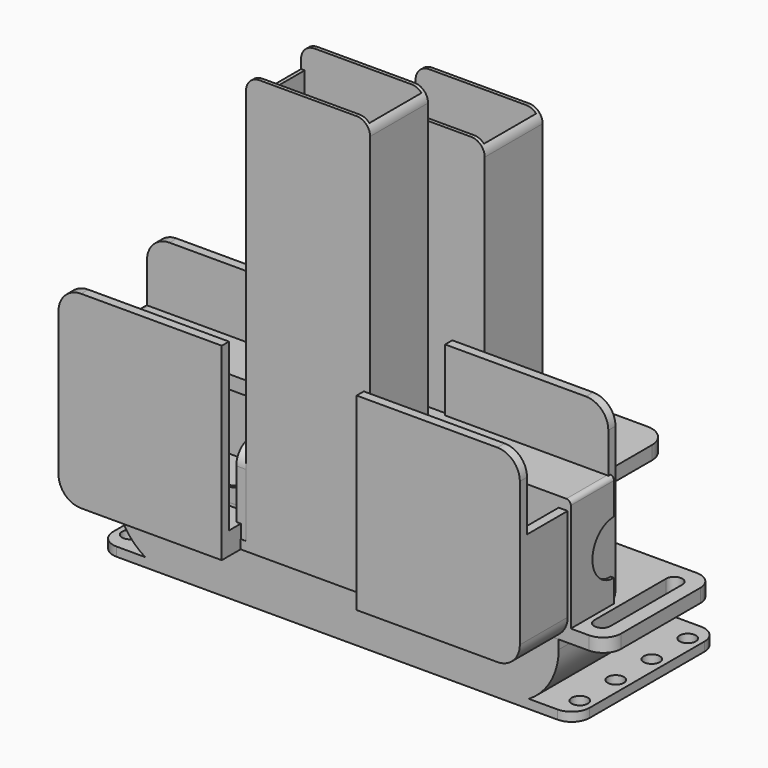
from build123d import *

# Parameters (mm, degrees)
EXTRUDE002_DEPTH          = 0.8
EXTRUDE001_DEPTH          = 0.8
EXTRUDE_DEPTH             = 24.6
BOX003_W                  = 0.8
BOX003_H                  = 16.1
BOX003_DEPTH              = 5
BOX004_W                  = 0.8
BOX004_H                  = 16.1
BOX004_DEPTH              = 7
BOX002_W                  = 27.6
BOX002_H                  = 14.5
BOX002_DEPTH              = 92
BOX_W                     = 27.6
BOX_H                     = 16.1
BOX_DEPTH                 = 92
FILLET001_R               = 3
COMPOUND_PLACEMENT_ANGLE  = 180
CYLINDER_R                = 1.8
CYLINDER_DEPTH            = 10
ARRAY001_X_COUNT          = 2
ARRAY001_X_PITCH          = 100
ARRAY001_Y_COUNT          = 4
ARRAY001_Y_PITCH          = 10
BOX005_W                  = 86
BOX005_H                  = 39.9
BOX005_DEPTH              = 0.8
EXTRUDE003_DEPTH          = 50
BOX001_W                  = 106
BOX001_H                  = 39.9
BOX001_DEPTH              = 2
FILLET_R                  = 4
EXTRUDE004_DEPTH          = 11.3
BOX008_W                  = 102.6
BOX008_H                  = 22.6
BOX008_DEPTH              = 98.6
CYLINDER003_R             = 4
CYLINDER003_DEPTH         = 50
CYLINDER002_R             = 1.8
CYLINDER002_DEPTH         = 50
ARRAY_X_COUNT             = 7
ARRAY_X_PITCH             = 10
BOX009_W                  = 30
BOX009_H                  = 26.6
BOX009_DEPTH              = 98.6
BOX006_W                  = 98.6
BOX006_H                  = 22.6
BOX006_DEPTH              = 98.6
BOX007_W                  = 102.6
BOX007_H                  = 26.6
BOX007_DEPTH              = 42
FILLET002_R               = 5
CYLINDER004_R             = 1.8
CYLINDER004_DEPTH         = 10
ARRAY002_X_COUNT          = 5
ARRAY002_X_PITCH          = 10
BOX010_W                  = 50
BOX010_H                  = 16.1
BOX010_DEPTH              = 2
FILLET003_R               = 5
CYLINDER006_R             = 2
CYLINDER006_DEPTH         = 10
ARRAY004_X_COUNT          = 2
ARRAY004_X_PITCH          = 24
CYLINDER005_R             = 1.8
CYLINDER005_DEPTH         = 10
ARRAY003_X_COUNT          = 3
ARRAY003_X_PITCH          = 10
BOX012_W                  = 38
BOX012_H                  = 10
BOX012_DEPTH              = 2
FILLET005_R               = 5
BOX011_W                  = 38
BOX011_H                  = 2
BOX011_DEPTH              = 28
FILLET004_R               = 5
CYLINDER008_R             = 6
CYLINDER008_DEPTH         = 150
CYLINDER007_R             = 1.8
CYLINDER007_DEPTH         = 10
BOX017_W                  = 3.6
BOX017_H                  = 20
BOX017_DEPTH              = 10
BOX014_W                  = 10
BOX014_H                  = 3
BOX014_DEPTH              = 25.1
FILLET007_R               = 5
BOX015_W                  = 3
BOX015_H                  = 12
BOX015_DEPTH              = 28.1
FILLET008_R               = 1
BOX016_W                  = 10
BOX016_H                  = 30
BOX016_DEPTH              = 3
FILLET006_R               = 4
BOX013_W                  = 100
BOX013_H                  = 12
BOX013_DEPTH              = 3
CHAMFER001_SIZE           = 1
BOX018_W                  = 100
BOX018_H                  = 12
BOX018_DEPTH              = 3
CHAMFER_SIZE              = 2
BOX019_W                  = 30
BOX019_H                  = 30
BOX019_DEPTH              = 3
FILLET009_R               = 5
FILLET010_R               = 5
BOX024_W                  = 26
BOX024_H                  = 14.5
BOX024_DEPTH              = 10
CYLINDER009_R             = 1.8
CYLINDER009_DEPTH         = 10
BOX023_W                  = 3.6
BOX023_H                  = 12
BOX023_DEPTH              = 10
FUSION015_ROLL_ANGLE      = 90
FUSION015_PLACEMENT_ANGLE = -90
BOX022_W                  = 3
BOX022_H                  = 25
BOX022_DEPTH              = 20
FILLET011_R               = 4
BOX021_W                  = 26
BOX021_H                  = 14.5
BOX021_DEPTH              = 10
BOX020_W                  = 30
BOX020_H                  = 16
BOX020_DEPTH              = 9
FILLET012_R               = 2


with BuildPart() as usb_extrude:
    # Sketch002 → Extrude002 (new body)
    with BuildSketch(Plane.XZ.offset(-24.6)):
        with BuildLine():
            Line((-35.5, -15.8), (35.5, -15.8))
            ThreePointArc((35.5, -15.8), (45.258074, -11.758074), (49.3, -2))
            Line((49.3, 0), (49.3, -2))
            Line((-49.3, 0), (49.3, 0))
            Line((-49.3, 0), (-49.3, -2))
            ThreePointArc((-49.3, -2), (-45.258074, -11.758074), (-35.5, -15.8))
        make_face()
    extrude(amount=EXTRUDE002_DEPTH)


with BuildPart() as side_extrude:
    # Sketch001 → Extrude001 (new body)
    with BuildSketch(Plane.XZ):
        with BuildLine():
            Line((-35.5, -15.8), (35.5, -15.8))
            ThreePointArc((35.5, -15.8), (45.258074, -11.758074), (49.3, -2))
            Line((49.3, 0), (49.3, -2))
            Line((16.11426, 7.864757), (49.3, 0))
            ThreePointArc((16.11426, 7.864757), (0, 21.682044), (-16.11426, 7.864757))
            Line((-49.3, 0), (-16.11426, 7.864757))
            Line((-49.3, 0), (-49.3, -2))
            ThreePointArc((-49.3, -2), (-45.258074, -11.758074), (-35.5, -15.8))
        make_face()
    extrude(amount=-EXTRUDE001_DEPTH)


with BuildPart() as part_mirroring:
    # Part__Mirroring: instance of side extrude
    add(side_extrude.part.mirror(Plane(origin=(0, 12.3, 0), x_dir=(1, 0, 0), z_dir=(0, 1, 0))))


with BuildPart() as obj1:
    # Sketch → Extrude (new body)
    with BuildSketch(Plane.XZ):
        with BuildLine():
            Line((-35.5, -15.8), (35.5, -15.8))
            ThreePointArc((35.5, -15.8), (45.258074, -11.758074), (49.3, -2))
            Line((49.3, -2), (49.3, 0))
            Line((48.5, 0), (49.3, 0))
            Line((48.5, -2), (48.5, 0))
            ThreePointArc((35.5, -15), (44.692388, -11.192388), (48.5, -2))
            Line((-35.5, -15), (35.5, -15))
            ThreePointArc((-48.5, -2), (-44.692388, -11.192388), (-35.5, -15))
            Line((-48.5, 0), (-48.5, -2))
            Line((-49.3, 0), (-48.5, 0))
            Line((-49.3, -2), (-49.3, 0))
            ThreePointArc((-49.3, -2), (-45.258074, -11.758074), (-35.5, -15.8))
        make_face()
    extrude(amount=-EXTRUDE_DEPTH)

    # Fusion: union Part__Mirroring, side extrude
    add(part_mirroring.part)
    add(side_extrude.part)


with BuildPart() as usb_bottom_wall_cube:
    # Box003 → Box003 (new body)
    with BuildSketch(Plane(origin=(13, -8.05, 0), x_dir=(1, 0, 0), z_dir=(0, 0, 1))):
        with Locations((0.4, 8.05)):
            Rectangle(BOX003_W, BOX003_H)
    extrude(amount=BOX003_DEPTH)


with BuildPart() as usb_top_wall_cube:
    # Box004 → Box004 (new body)
    with BuildSketch(Plane(origin=(13, -8.05, 80), x_dir=(1, 0, 0), z_dir=(0, 0, 1))):
        with Locations((0.4, 8.05)):
            Rectangle(BOX004_W, BOX004_H)
    extrude(amount=BOX004_DEPTH)


with BuildPart() as usb_inner_cube:
    # Box002 → Box002 (new body)
    with BuildSketch(Plane(origin=(-13, -7.25, 0.8), x_dir=(1, 0, 0), z_dir=(0, 0, 1))):
        with Locations((13.8, 7.25)):
            Rectangle(BOX002_W, BOX002_H)
    extrude(amount=BOX002_DEPTH)


with BuildPart() as usb_holder_compound:
    # Box → Box (new body)
    with BuildSketch(Plane(origin=(-13.8, -8.05, 0), x_dir=(1, 0, 0), z_dir=(0, 0, 1))):
        with Locations((13.8, 8.05)):
            Rectangle(BOX_W, BOX_H)
    extrude(amount=BOX_DEPTH)

    # Fillet001
    fillet001_edges = [usb_holder_compound.edges().sort_by_distance(p)[0] for p in [
        (-13.8, 0, 92),
        (13.8, 0, 92),
    ]]
    fillet(fillet001_edges, radius=FILLET001_R)

    # Cut002: cut usb inner cube
    add(usb_inner_cube.part, mode=Mode.SUBTRACT)

    # Fusion001: union usb bottom wall cube, usb top wall cube
    add(usb_bottom_wall_cube.part)
    add(usb_top_wall_cube.part)


with BuildPart() as usb_holder_compound_1:
    # Compound placement: moved
    add(usb_holder_compound.part.moved(Location((0, 0, 1.2))).rotate(Axis((0, 0, 1.2), (0, 0, 1)), COMPOUND_PLACEMENT_ANGLE))


with BuildPart() as usb_holder_compound_clone:
    # Body base: copy of usb holder compound
    add(usb_holder_compound_1.part)


with BuildPart() as usb_holder_compound_clone_1:
    # Clone placement: moved
    add(usb_holder_compound_clone.part.moved(Location((0, 0, -1.2))))


with BuildPart() as usb_holder_compound_clone_2:
    # Body placement: moved
    add(usb_holder_compound_clone_1.part.moved(Location((0, 31.85, -15.8))))


with BuildPart() as bolt_hole_array:
    # Cylinder → Cylinder (new body)
    with BuildSketch(Plane(origin=(-50, 5, -17), x_dir=(1, 0, 0), z_dir=(0, 0, 1))):
        Circle(CYLINDER_R)
    extrude(amount=CYLINDER_DEPTH)

    # Array001 X: bolt hole array ×2


with BuildPart() as bolt_hole_array_1:
    add(bolt_hole_array.part)
    with Locations(*[(i * ARRAY001_X_PITCH, 0, 0) for i in range(1, ARRAY001_X_COUNT)]):
        add(bolt_hole_array.part)

    # Array001 Y: bolt hole array ×4


with BuildPart() as bolt_hole_array_2:
    add(bolt_hole_array_1.part)
    with Locations(*[(0, i * ARRAY001_Y_PITCH, 0) for i in range(1, ARRAY001_Y_COUNT)]):
        add(bolt_hole_array_1.part)


with BuildPart() as bottom_wall_cube:
    # Box005 → Box005 (new body)
    with BuildSketch(Plane(origin=(-43, 0, -15.8), x_dir=(1, 0, 0), z_dir=(0, 0, 1))):
        with Locations((43, 19.95)):
            Rectangle(BOX005_W, BOX005_H)
    extrude(amount=BOX005_DEPTH)


with BuildPart() as side_sketch_removal_extrude:
    # Sketch001 → Extrude003 (new body, symmetric)
    with BuildSketch(Plane.XZ):
        with BuildLine():
            Line((-35.5, -15.8), (35.5, -15.8))
            ThreePointArc((35.5, -15.8), (45.258074, -11.758074), (49.3, -2))
            Line((49.3, 0), (49.3, -2))
            Line((16.11426, 7.864757), (49.3, 0))
            ThreePointArc((16.11426, 7.864757), (0, 21.682044), (-16.11426, 7.864757))
            Line((-49.3, 0), (-16.11426, 7.864757))
            Line((-49.3, 0), (-49.3, -2))
            ThreePointArc((-49.3, -2), (-45.258074, -11.758074), (-35.5, -15.8))
        make_face()
    extrude(amount=EXTRUDE003_DEPTH, both=True)


with BuildPart() as obj2:
    # Box001 → Box001 (new body)
    with BuildSketch(Plane(origin=(-53, 0, -15.8), x_dir=(1, 0, 0), z_dir=(0, 0, 1))):
        with Locations((53, 19.95)):
            Rectangle(BOX001_W, BOX001_H)
    extrude(amount=BOX001_DEPTH)

    # Fillet
    fillet_edges = [obj2.edges().sort_by_distance(p)[0] for p in [
        (-53, 0, -14.8),
        (-53, 39.9, -14.8),
        (53, 0, -14.8),
        (53, 39.9, -14.8),
    ]]
    fillet(fillet_edges, radius=FILLET_R)

    # Cut001: cut side sketch removal extrude
    add(side_sketch_removal_extrude.part, mode=Mode.SUBTRACT)

    # Fusion002: union bottom wall cube
    add(bottom_wall_cube.part)

    # Cut: cut bolt hole array
    add(bolt_hole_array_2.part, mode=Mode.SUBTRACT)

    # Fusion003: union obj1, usb holder compound clone
    add(obj1.part)
    add(usb_holder_compound_clone_2.part)


with BuildPart() as bottom_pad:
    # Sketch003 → Extrude004 (new body, symmetric)
    with BuildSketch(Plane.XZ):
        with BuildLine():
            Line((-35.5, -15.8), (35.5, -15.8))
            ThreePointArc((35.5, -15.8), (45.258074, -11.758074), (49.3, -2))
            Line((49.3, -2), (49.3, 0))
            Line((-49.3, 0), (49.3, 0))
            Line((-49.3, -2), (-49.3, 0))
            ThreePointArc((-49.3, -2), (-45.258074, -11.758074), (-35.5, -15.8))
        make_face()
    extrude(amount=EXTRUDE004_DEPTH, both=True)


with BuildPart() as obj3:
    # Box008 → Box008 (new body)
    with BuildSketch(Plane(origin=(-51.3, -11.3, 5), x_dir=(1, 0, 0), z_dir=(0, 0, 1))):
        with Locations((51.3, 11.3)):
            Rectangle(BOX008_W, BOX008_H)
    extrude(amount=BOX008_DEPTH)


with BuildPart() as bolt_head_hole:
    # Cylinder003 → Cylinder003 (new body)
    with BuildSketch(Plane.XY.offset(50)):
        Circle(CYLINDER003_R)
    extrude(amount=CYLINDER003_DEPTH)


with BuildPart() as bolt_hole_array001:
    # Cylinder002 → Cylinder002 (new body)
    with BuildSketch(Plane.XY):
        Circle(CYLINDER002_R)
    extrude(amount=CYLINDER002_DEPTH)

    # Fusion005: union bolt head hole
    add(bolt_head_hole.part)


with BuildPart() as bolt_hole_array001_1:
    # Fusion005 placement: moved
    add(bolt_hole_array001.part.moved(Location((-30, 0, -68.8))))

    # Array X: bolt hole array001 ×7


with BuildPart() as bolt_hole_array001_2:
    add(bolt_hole_array001_1.part)
    with Locations(*[(i * ARRAY_X_PITCH, 0, 0) for i in range(1, ARRAY_X_COUNT)]):
        add(bolt_hole_array001_1.part)


with BuildPart() as obj4:
    # Box009 → Box009 (new body)
    with BuildSketch(Plane(origin=(-15, -13.3, -49.3), x_dir=(1, 0, 0), z_dir=(0, 0, 1))):
        with Locations((15, 13.3)):
            Rectangle(BOX009_W, BOX009_H)
    extrude(amount=BOX009_DEPTH)


with BuildPart() as obj5:
    # Box006 → Box006 (new body)
    with BuildSketch(Plane(origin=(-49.3, -11.3, 0), x_dir=(1, 0, 0), z_dir=(0, 0, 1))):
        with Locations((49.3, 11.3)):
            Rectangle(BOX006_W, BOX006_H)
    extrude(amount=BOX006_DEPTH)

    # Fusion004: union bottom pad, obj3, bolt hole array001, obj4
    add(bottom_pad.part)
    add(obj3.part)
    add(bolt_hole_array001_2.part)
    add(obj4.part)


with BuildPart() as obj5_1:
    # Fusion004 placement: moved
    add(obj5.part.moved(Location((0, 0, 20.8))))


with BuildPart() as obj6:
    # Box007 → Box007 (new body)
    with BuildSketch(Plane(origin=(-51.3, -13.3, 0), x_dir=(1, 0, 0), z_dir=(0, 0, 1))):
        with Locations((51.3, 13.3)):
            Rectangle(BOX007_W, BOX007_H)
    extrude(amount=BOX007_DEPTH)

    # Fillet002
    fillet002_edges = [obj6.edges().sort_by_distance(p)[0] for p in [
        (-51.3, 0, 42),
        (-51.3, 0, 0),
        (51.3, 0, 42),
        (51.3, 0, 0),
    ]]
    fillet(fillet002_edges, radius=FILLET002_R)

    # Cut003: cut obj5
    add(obj5_1.part, mode=Mode.SUBTRACT)


with BuildPart() as bolt_hole_array002:
    # Cylinder004 → Cylinder004 (new body)
    with BuildSketch(Plane.XY):
        Circle(CYLINDER004_R)
    extrude(amount=CYLINDER004_DEPTH)

    # Array002 X: bolt hole array002 ×5


with BuildPart() as bolt_hole_array002_1:
    add(bolt_hole_array002.part)
    with Locations(*[(i * ARRAY002_X_PITCH, 0, 0) for i in range(1, ARRAY002_X_COUNT)]):
        add(bolt_hole_array002.part)


with BuildPart() as bolt_hole_array002_2:
    # Array002 placement: moved
    add(bolt_hole_array002_1.part.moved(Location((-20, 0, 0))))


with BuildPart() as usb_holder_cut001:
    # Box010 → Box010 (new body)
    with BuildSketch(Plane(origin=(-25, -8.05, 0), x_dir=(1, 0, 0), z_dir=(0, 0, 1))):
        with Locations((25, 8.05)):
            Rectangle(BOX010_W, BOX010_H)
    extrude(amount=BOX010_DEPTH)

    # Fillet003
    fillet003_edges = [usb_holder_cut001.edges().sort_by_distance(p)[0] for p in [
        (-25, -8.05, 1),
        (-25, 8.05, 1),
        (25, -8.05, 1),
        (25, 8.05, 1),
    ]]
    fillet(fillet003_edges, radius=FILLET003_R)

    # Fusion006: union usb holder compound
    add(usb_holder_compound_1.part)

    # Cut004: cut bolt hole array002
    add(bolt_hole_array002_2.part, mode=Mode.SUBTRACT)


with BuildPart() as array004:
    # Cylinder006 → Cylinder006 (new body)
    with BuildSketch(Plane(origin=(0, 0, 0), x_dir=(1, 0, 0), z_dir=(0, 1, 0))):
        Circle(CYLINDER006_R)
    extrude(amount=CYLINDER006_DEPTH)

    # Array004 X: Array004 ×2


with BuildPart() as array004_1:
    add(array004.part)
    with Locations(*[(i * ARRAY004_X_PITCH, 0, 0) for i in range(1, ARRAY004_X_COUNT)]):
        add(array004.part)


with BuildPart() as array004_2:
    # Array004 placement: moved
    add(array004_1.part.moved(Location((-12, 0, 17))))


with BuildPart() as camera_holder_extract_fusion:
    # Cylinder005 → Cylinder005 (new body)
    with BuildSketch(Plane.XY):
        Circle(CYLINDER005_R)
    extrude(amount=CYLINDER005_DEPTH)

    # Array003 X: camera holder extract fusion ×3


with BuildPart() as camera_holder_extract_fusion_1:
    add(camera_holder_extract_fusion.part)
    with Locations(*[(i * ARRAY003_X_PITCH, 0, 0) for i in range(1, ARRAY003_X_COUNT)]):
        add(camera_holder_extract_fusion.part)


with BuildPart() as camera_holder_extract_fusion_2:
    # Array003 placement: moved
    add(camera_holder_extract_fusion_1.part.moved(Location((-10, 7, 0))))

    # Fusion008: union Array004
    add(array004_2.part)


with BuildPart() as fillet005:
    # Box012 → Box012 (new body)
    with BuildSketch(Plane(origin=(-19, 2, 0), x_dir=(1, 0, 0), z_dir=(0, 0, 1))):
        with Locations((19, 5)):
            Rectangle(BOX012_W, BOX012_H)
    extrude(amount=BOX012_DEPTH)

    # Fillet005
    fillet005_edges = [fillet005.edges().sort_by_distance(p)[0] for p in [
        (-19, 12, 1),
        (19, 12, 1),
    ]]
    fillet(fillet005_edges, radius=FILLET005_R)


with BuildPart() as camera_holder_cut:
    # Box011 → Box011 (new body)
    with BuildSketch(Plane(origin=(-19, 0, 0), x_dir=(1, 0, 0), z_dir=(0, 0, 1))):
        with Locations((19, 1)):
            Rectangle(BOX011_W, BOX011_H)
    extrude(amount=BOX011_DEPTH)

    # Fillet004
    fillet004_edges = [camera_holder_cut.edges().sort_by_distance(p)[0] for p in [
        (-19, 1, 28),
        (19, 1, 28),
    ]]
    fillet(fillet004_edges, radius=FILLET004_R)

    # Fusion007: union Fillet005
    add(fillet005.part)

    # Cut005: cut camera holder extract fusion
    add(camera_holder_extract_fusion_2.part, mode=Mode.SUBTRACT)


with BuildPart() as cylinder:
    # Cylinder008 → Cylinder008 (new body)
    with BuildSketch(Plane(origin=(-75, 12, 14.05), x_dir=(0, 0, -1), z_dir=(1, 0, 0))):
        Circle(CYLINDER008_R)
    extrude(amount=CYLINDER008_DEPTH)


with BuildPart() as m3_hole:
    # Cylinder007 → Cylinder007 (new body)
    with BuildSketch(Plane(origin=(0, -10, 0), x_dir=(1, 0, 0), z_dir=(0, 0, 1))):
        Circle(CYLINDER007_R)
    extrude(amount=CYLINDER007_DEPTH)


with BuildPart() as part_mirroring002:
    # Part__Mirroring002: instance of m3 hole
    add(m3_hole.part.mirror(Plane(origin=(0, 0, 0), x_dir=(1, 0, 0), z_dir=(0, 1, 0))))


with BuildPart() as extract_fusion:
    # Box017 → Box017 (new body)
    with BuildSketch(Plane(origin=(-1.8, -10, 0), x_dir=(1, 0, 0), z_dir=(0, 0, 1))):
        with Locations((1.8, 10)):
            Rectangle(BOX017_W, BOX017_H)
    extrude(amount=BOX017_DEPTH)

    # Fusion010: union Part__Mirroring002, m3 hole
    add(part_mirroring002.part)
    add(m3_hole.part)


with BuildPart() as extract_fusion_1:
    # Fusion010 placement: moved
    add(extract_fusion.part.moved(Location((-5, 15, 0))))

    # Fusion014: union Cylinder
    add(cylinder.part)


with BuildPart() as corner_cube_fillet:
    # Box014 → Box014 (new body)
    with BuildSketch(Plane.XY):
        with Locations((5, 1.5)):
            Rectangle(BOX014_W, BOX014_H)
    extrude(amount=BOX014_DEPTH)

    # Fillet007
    fillet007_edges = [corner_cube_fillet.edges().sort_by_distance(p)[0] for p in [
        (10, 1.5, 0),
    ]]
    fillet(fillet007_edges, radius=FILLET007_R)


with BuildPart() as other_corner_cube_fillet:
    # Box015 → Box015 (new body)
    with BuildSketch(Plane(origin=(-2, 0, 0), x_dir=(1, 0, 0), z_dir=(0, 0, 1))):
        with Locations((1.5, 6)):
            Rectangle(BOX015_W, BOX015_H)
    extrude(amount=BOX015_DEPTH)

    # Fillet008
    fillet008_edges = [other_corner_cube_fillet.edges().sort_by_distance(p)[0] for p in [
        (-2, 6, 28.1),
    ]]
    fillet(fillet008_edges, radius=FILLET008_R)


with BuildPart() as cornet_set_cut:
    # Box016 → Box016 (new body)
    with BuildSketch(Plane(origin=(-10, 0, 0), x_dir=(1, 0, 0), z_dir=(0, 0, 1))):
        with Locations((5, 15)):
            Rectangle(BOX016_W, BOX016_H)
    extrude(amount=BOX016_DEPTH)

    # Fillet006
    fillet006_edges = [cornet_set_cut.edges().sort_by_distance(p)[0] for p in [
        (-10, 0, 1.5),
        (-10, 30, 1.5),
    ]]
    fillet(fillet006_edges, radius=FILLET006_R)

    # Fusion011: union corner cube fillet, other corner cube fillet
    add(corner_cube_fillet.part)
    add(other_corner_cube_fillet.part)

    # Cut006: cut extract fusion
    add(extract_fusion_1.part, mode=Mode.SUBTRACT)


with BuildPart() as cornet_set_cut_1:
    # Cut006 placement: moved
    add(cornet_set_cut.part.moved(Location((-50, 0, 0))))


with BuildPart() as flat_holder_cube_chamfer:
    # Box013 → Box013 (new body)
    with BuildSketch(Plane(origin=(-50, 0, 25.1), x_dir=(1, 0, 0), z_dir=(0, 0, 1))):
        with Locations((50, 6)):
            Rectangle(BOX013_W, BOX013_H)
    extrude(amount=BOX013_DEPTH)

    # Chamfer001
    chamfer001_edges = [flat_holder_cube_chamfer.edges().sort_by_distance(p)[0] for p in [
        (0, 12, 25.1),
    ]]
    chamfer(chamfer001_edges, length=CHAMFER001_SIZE)


with BuildPart() as bottom_flat_holder_chamfer:
    # Box018 → Box018 (new body)
    with BuildSketch(Plane(origin=(-50, 0, 0), x_dir=(1, 0, 0), z_dir=(0, 0, 1))):
        with Locations((50, 6)):
            Rectangle(BOX018_W, BOX018_H)
    extrude(amount=BOX018_DEPTH)

    # Chamfer
    chamfer_edges = [bottom_flat_holder_chamfer.edges().sort_by_distance(p)[0] for p in [
        (0, 12, 3),
    ]]
    chamfer(chamfer_edges, length=CHAMFER_SIZE)


with BuildPart() as bottom_flat_fillet:
    # Box019 → Box019 (new body)
    with BuildSketch(Plane(origin=(-50, 0, 0), x_dir=(1, 0, 0), z_dir=(0, 0, 1))):
        with Locations((15, 15)):
            Rectangle(BOX019_W, BOX019_H)
    extrude(amount=BOX019_DEPTH)

    # Fillet009
    fillet009_edges = [bottom_flat_fillet.edges().sort_by_distance(p)[0] for p in [
        (-20, 30, 1.5),
    ]]
    fillet(fillet009_edges, radius=FILLET009_R)


with BuildPart() as bottom_flat_fusion:
    # Part__Mirroring003: instance of bottom flat fillet
    add(bottom_flat_fillet.part.mirror(Plane(origin=(0, 0, 0), x_dir=(0, -1, 0), z_dir=(1, 0, 0))))

    # Fusion013: union bottom flat fillet
    add(bottom_flat_fillet.part)


with BuildPart() as bottom_flat_fusion_mirror_5_fillet:
    # Part__Mirroring004: instance of bottom flat fusion
    add(bottom_flat_fusion.part.mirror(Plane(origin=(0, 0, 14.05), x_dir=(0, 1, 0), z_dir=(0, 0, 1))))

    # Fillet010
    fillet010_edges = [bottom_flat_fusion_mirror_5_fillet.edges().sort_by_distance(p)[0] for p in [
        (50, 30, 26.6),
        (-50, 30, 26.6),
    ]]
    fillet(fillet010_edges, radius=FILLET010_R)


with BuildPart() as flat_holder_fusion:
    # Part__Mirroring001: instance of cornet set cut
    add(cornet_set_cut_1.part.mirror(Plane(origin=(0, 0, 0), x_dir=(0, -1, 0), z_dir=(1, 0, 0))))

    # Fusion012: union cornet set cut, flat holder cube chamfer, bottom flat holder chamfer, bottom flat fusion, bottom flat fusion (Mirror #5) fillet
    add(cornet_set_cut_1.part)
    add(flat_holder_cube_chamfer.part)
    add(bottom_flat_holder_chamfer.part)
    add(bottom_flat_fusion.part)
    add(bottom_flat_fusion_mirror_5_fillet.part)


with BuildPart() as cube003:
    # Box024 → Box024 (new body)
    with BuildSketch(Plane(origin=(-13, -7.25, 0), x_dir=(1, 0, 0), z_dir=(0, 0, 1))):
        with Locations((13, 7.25)):
            Rectangle(BOX024_W, BOX024_H)
    extrude(amount=BOX024_DEPTH)


with BuildPart() as m3_hole001:
    # Cylinder009 → Cylinder009 (new body)
    with BuildSketch(Plane(origin=(0, -6, 0), x_dir=(1, 0, 0), z_dir=(0, 0, 1))):
        Circle(CYLINDER009_R)
    extrude(amount=CYLINDER009_DEPTH)


with BuildPart() as part_mirroring005:
    # Part__Mirroring005: instance of m3 hole001
    add(m3_hole001.part.mirror(Plane(origin=(0, 0, 0), x_dir=(1, 0, 0), z_dir=(0, 1, 0))))


with BuildPart() as widen_bolt_hole_fusion001:
    # Box023 → Box023 (new body)
    with BuildSketch(Plane(origin=(-1.8, -6, 0), x_dir=(1, 0, 0), z_dir=(0, 0, 1))):
        with Locations((1.8, 6)):
            Rectangle(BOX023_W, BOX023_H)
    extrude(amount=BOX023_DEPTH)

    # Fusion015: union Part__Mirroring005, m3 hole001
    add(part_mirroring005.part)
    add(m3_hole001.part)


with BuildPart() as widen_bolt_hole_fusion001_1:
    # Fusion015 roll: moved
    add(widen_bolt_hole_fusion001.part.rotate(Axis((0, 0, 0), (1, 0, 0)), FUSION015_ROLL_ANGLE))


with BuildPart() as widen_bolt_hole_fusion001_2:
    # Fusion015 placement: moved
    add(widen_bolt_hole_fusion001_1.part.moved(Location((-7, 13, 10))).rotate(Axis((-7, 13, 10), (0, 0, 1)), FUSION015_PLACEMENT_ANGLE))


with BuildPart() as fillet011:
    # Box022 → Box022 (new body)
    with BuildSketch(Plane(origin=(-16, -8, 0), x_dir=(1, 0, 0), z_dir=(0, 0, 1))):
        with Locations((1.5, 12.5)):
            Rectangle(BOX022_W, BOX022_H)
    extrude(amount=BOX022_DEPTH)

    # Fillet011
    fillet011_edges = [fillet011.edges().sort_by_distance(p)[0] for p in [
        (-14.5, -8, 20),
        (-14.5, 17, 0),
        (-14.5, 17, 20),
    ]]
    fillet(fillet011_edges, radius=FILLET011_R)


with BuildPart() as cube001:
    # Box021 → Box021 (new body)
    with BuildSketch(Plane(origin=(-13, -7.25, 2), x_dir=(1, 0, 0), z_dir=(0, 0, 1))):
        with Locations((13, 7.25)):
            Rectangle(BOX021_W, BOX021_H)
    extrude(amount=BOX021_DEPTH)


with BuildPart() as usb_side_holder_open_cut:
    # Box020 → Box020 (new body)
    with BuildSketch(Plane(origin=(-15, -8, 0), x_dir=(1, 0, 0), z_dir=(0, 0, 1))):
        with Locations((15, 8)):
            Rectangle(BOX020_W, BOX020_H)
    extrude(amount=BOX020_DEPTH)

    # Fillet012
    fillet012_edges = [usb_side_holder_open_cut.edges().sort_by_distance(p)[0] for p in [
        (15, -8, 4.5),
        (15, 8, 4.5),
    ]]
    fillet(fillet012_edges, radius=FILLET012_R)

    # Cut007: cut Cube001
    add(cube001.part, mode=Mode.SUBTRACT)

    # Fusion016: union Fillet011
    add(fillet011.part)

    # Cut008: cut widen bolt hole fusion001
    add(widen_bolt_hole_fusion001_2.part, mode=Mode.SUBTRACT)

    # Cut009: cut Cube003
    add(cube003.part, mode=Mode.SUBTRACT)


solid = Compound([usb_extrude.part, obj2.part, obj6.part, usb_holder_cut001.part, camera_holder_cut.part, flat_holder_fusion.part, usb_side_holder_open_cut.part])
